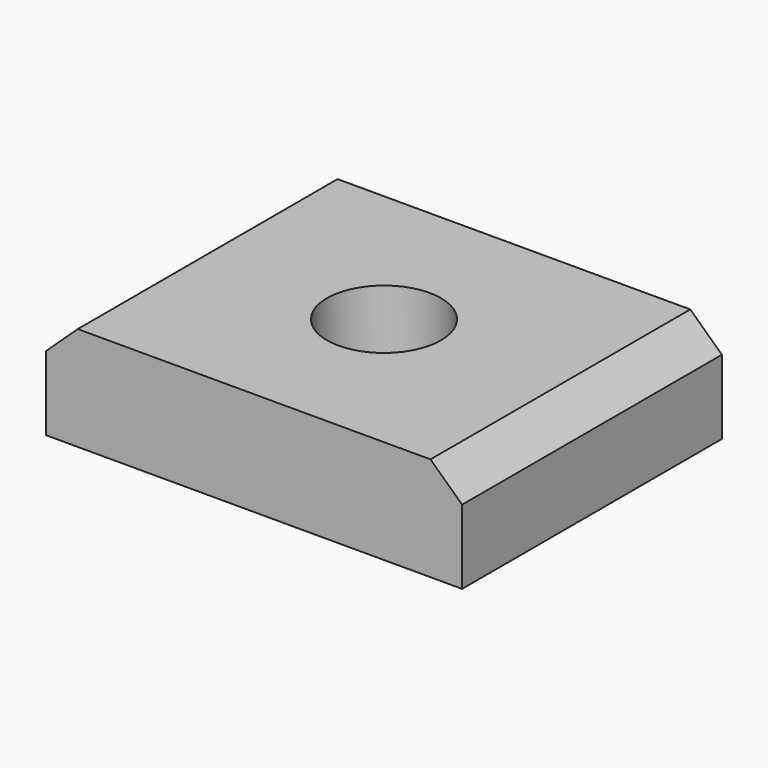
from build123d import *

# Parameters (mm, degrees)
F0_W      = 40.1
F0_H      = 31.3
F1_DEPTH  = 2.65
F2_W      = 34
F2_H      = 31.3
F3_DEPTH  = 2.85
F5_DEPTH  = 31.3
F6_DEPTH  = 4.5
F7_R      = 2.95
F8_DEPTH  = 25
F9_R      = 5.5
F9_R_2    = 2.95
F10_DEPTH = 8.4


with BuildPart() as f1:
    # F0 (on Top) → F1 (new body)
    with BuildSketch(Plane.XY):
        Rectangle(F0_W, F0_H)
    extrude(amount=F1_DEPTH)

    # F2 (on face) → F3 (join)
    with BuildSketch(Plane.XY.offset(2.65)):
        Rectangle(F2_W, F2_H)
    extrude(amount=F3_DEPTH)

    # F4 (on face) → F5 (join)
    with BuildSketch(Plane.XZ.offset(15.65)):
        Polygon((20.05, 2.65), (17, 5.5), (17, 2.65), align=None)
        Polygon((-17, 5.5), (-20.05, 2.65), (-17, 2.65), align=None)
    extrude(amount=-F5_DEPTH)

    # F6 (add): a face of the model
    f6_faces = [f1.faces().sort_by_distance(p)[0] for p in [
        (0, 0, 0),
    ]]
    extrude(f6_faces, amount=F6_DEPTH)

    # F7 (on face) → F8 (cut)
    with BuildSketch(Plane(origin=(0, 0, -4.5), x_dir=(1, 0, 0), z_dir=(0, 0, -1))):
        Circle(F7_R)
    extrude(amount=-F8_DEPTH, mode=Mode.SUBTRACT)

    # F9 (on face) → F10 (cut)
    with BuildSketch(Plane.XY.offset(5.5)):
        Circle(F9_R)
        Circle(F9_R_2, mode=Mode.SUBTRACT)
    extrude(amount=-F10_DEPTH, mode=Mode.SUBTRACT)


solid = f1.part
